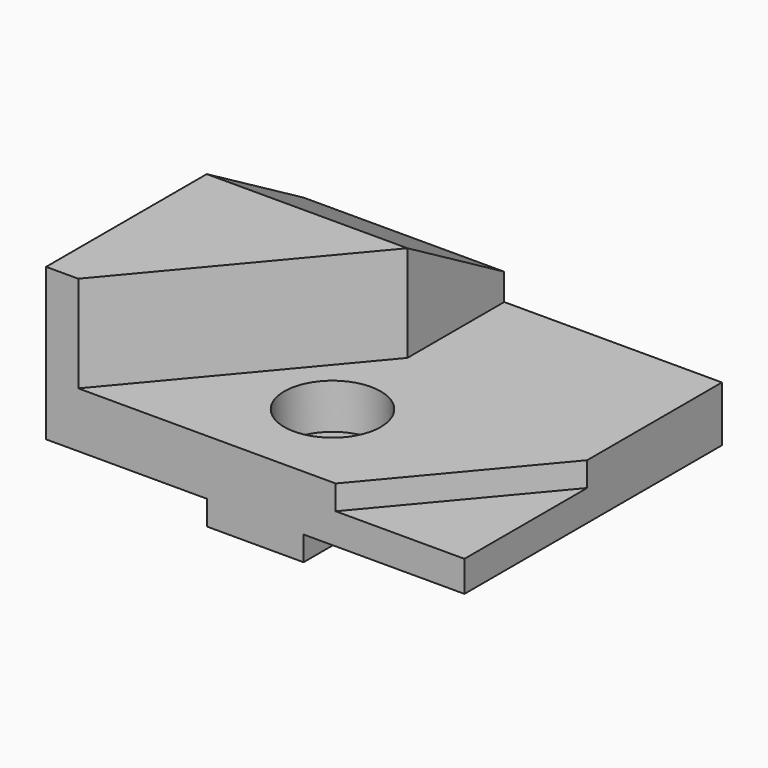
from build123d import *

# Parameters (mm, degrees)
F0_W      = 82.55
F0_H      = 34.798
F1_DEPTH  = 63.5
F2_W      = 31.75
F2_H      = 4.826
F3_DEPTH  = 63.501
F5_DEPTH  = 19.05
F7_DEPTH  = 82.551
F9_DEPTH  = 4.826
F10_R     = 6.35
F11_DEPTH = 15.749
F12_R     = 9.525
F13_DEPTH = 8.89


with BuildPart() as f1:
    # F0 (on Front) → F1 (new body)
    with BuildSketch(Plane.XZ):
        Rectangle(F0_W, F0_H)
    extrude(amount=F1_DEPTH)

    # F2 (on face) → F3 (cut, through all)
    with BuildSketch(Plane.XZ.offset(63.5)):
        with Locations((-25.4, -14.986)):
            Rectangle(F2_W, F2_H)
        with Locations((25.4, -14.986)):
            Rectangle(F2_W, F2_H)
    extrude(amount=-F3_DEPTH, mode=Mode.SUBTRACT)

    # F4 (on face) → F5 (cut)
    with BuildSketch(Plane.XY.offset(17.399)):
        Polygon((-1.676516, -23.876), (-34.925, -63.5), (41.275, -63.5), (41.275, 0), (-1.676516, 0), align=None)
    extrude(amount=-F5_DEPTH, mode=Mode.SUBTRACT)

    # F6 (on face) → F7 (cut, through all)
    with BuildSketch(Plane(origin=(-41.275, 0, 0), x_dir=(0, -1, 0), z_dir=(-1, 0, 0))):
        Polygon((0, 17.399), (0, 3.614185), (23.876, 17.399), align=None)
    extrude(amount=-F7_DEPTH, mode=Mode.SUBTRACT)

    # F8 (on face) → F9 (cut)
    with BuildSketch(Plane.XY.offset(-1.651)):
        Polygon((15.875, -63.5), (41.275, -63.5), (41.275, -33.229459), align=None)
    extrude(amount=-F9_DEPTH, mode=Mode.SUBTRACT)

    # F10 (on face) → F11 (cut, through all)
    with BuildSketch(Plane.XY.offset(-1.651)):
        with Locations((0, -44.45)):
            Circle(F10_R)
    extrude(amount=-F11_DEPTH, mode=Mode.SUBTRACT)

    # F12 (on face) → F13 (cut)
    with BuildSketch(Plane.XY.offset(-1.651)):
        with Locations((0, -44.45)):
            Circle(F12_R)
    extrude(amount=-F13_DEPTH, mode=Mode.SUBTRACT)


solid = f1.part
